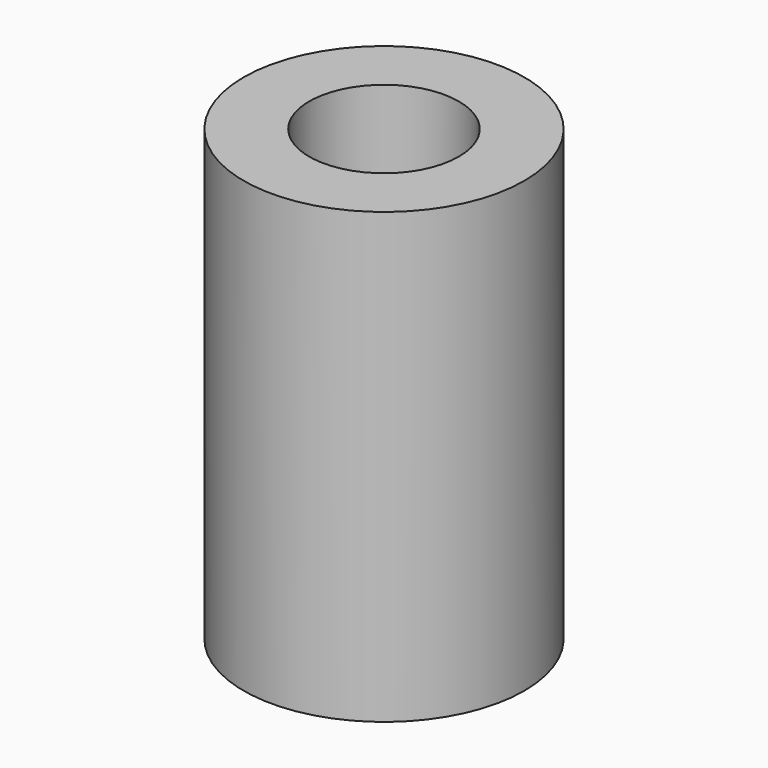
from build123d import *

# Parameters (mm, degrees)
SKETCH_R   = 7.5
SKETCH_R_2 = 4
PAD_DEPTH  = 24


with BuildPart() as part:
    # Sketch → Pad (new body)
    with BuildSketch(Plane.XY):
        Circle(SKETCH_R)
        Circle(SKETCH_R_2, mode=Mode.SUBTRACT)
    extrude(amount=PAD_DEPTH)


solid = part.part
